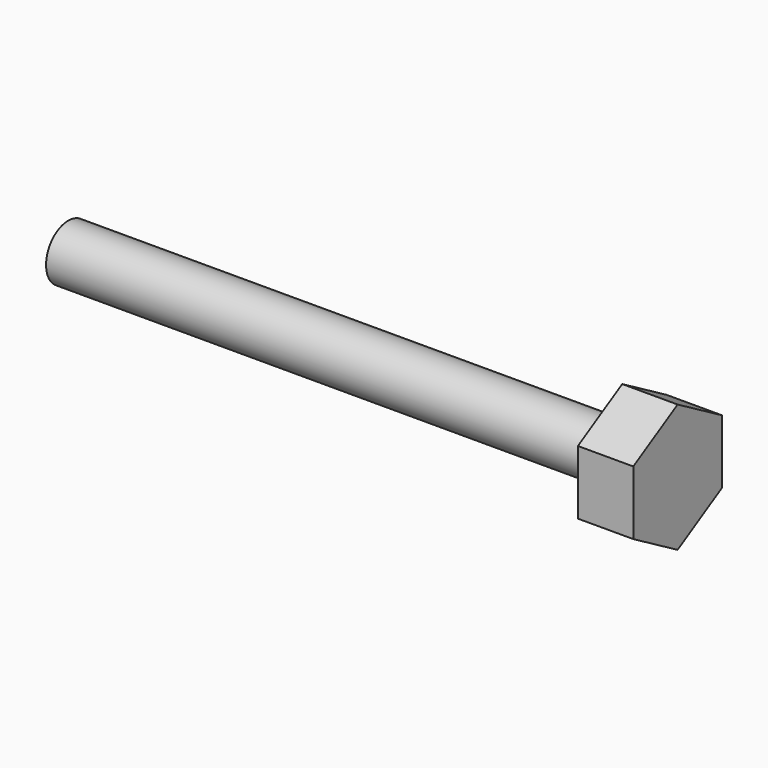
from build123d import *

# Parameters (mm, degrees)
F0_R     = 2
F1_DEPTH = 40
F3_DEPTH = 4


with BuildPart() as f1:
    # F0 (on Right) → F1 (new body)
    with BuildSketch(Plane.YZ):
        Circle(F0_R)
    extrude(amount=-F1_DEPTH)

    # F2 (on face) → F3 (join)
    with BuildSketch(Plane.YZ):
        Polygon((4, -2.309401), (4, 2.309401), (0, 4.618802), (-4, 2.309401), (-4, -2.309401), (0, -4.618802), align=None)
    extrude(amount=F3_DEPTH)


solid = f1.part
